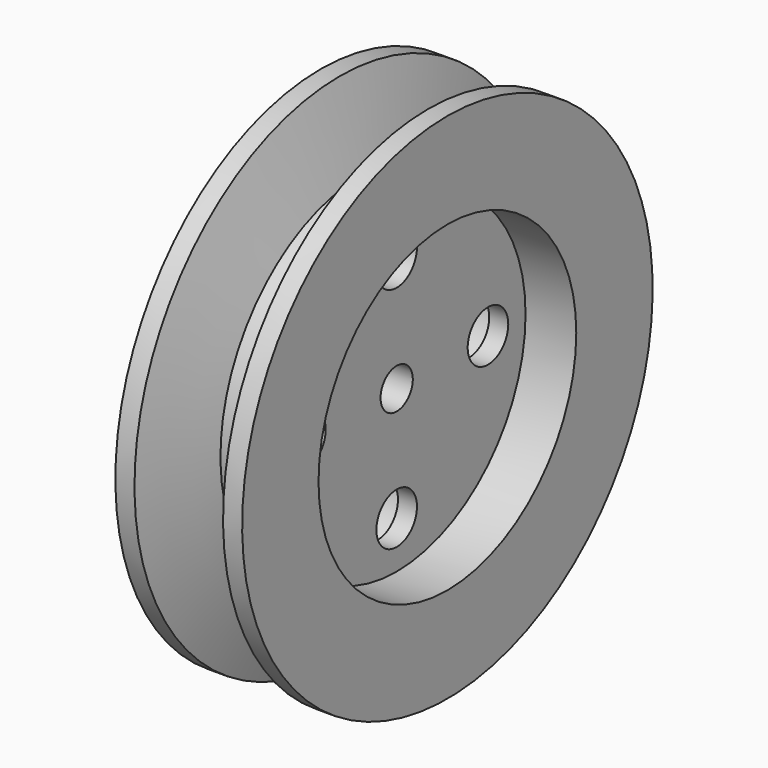
from build123d import *

# Parameters (mm, degrees)
F2_R           = 12.705
F3_DEPTH       = 4
F5_D           = 4
F5_CBORE_D     = 8
F5_CBORE_DEPTH = 4.5
F6_R           = 1.5875
F7_DEPTH       = 10.001


with BuildPart() as f1:
    # F0 (on Front) → F1 (revolve)
    with BuildSketch(Plane.XZ):
        Polygon((0, 20.234926), (0, 0), (10, 0), (10, 20.234926), (8.4925, 20.234926), (6.791023, 13.884926), (3.208977, 13.884926), (1.5075, 20.234926), align=None)
    revolve(axis=Axis((5, 0, 0), (-1, 0, 0)))

    # F2 (on face) → F3 (cut)
    with BuildSketch(Plane.YZ.offset(10)):
        Circle(F2_R)
    extrude(amount=-F3_DEPTH, mode=Mode.SUBTRACT)

    # F5 (through all)
    with Locations(Plane(origin=(0, 0, 0), x_dir=(0, -1, 0), z_dir=(-1, 0, 0))):
        with Locations((0, 9), (-9, 0), (0, -9), (9, 0)):
            CounterBoreHole(F5_D / 2, F5_CBORE_D / 2, F5_CBORE_DEPTH)

    # F6 (on face) → F7 (cut, through all)
    with BuildSketch(Plane(origin=(0, 0, 0), x_dir=(0, -1, 0), z_dir=(-1, 0, 0))):
        Circle(F6_R)
    extrude(amount=-F7_DEPTH, mode=Mode.SUBTRACT)


solid = f1.part
